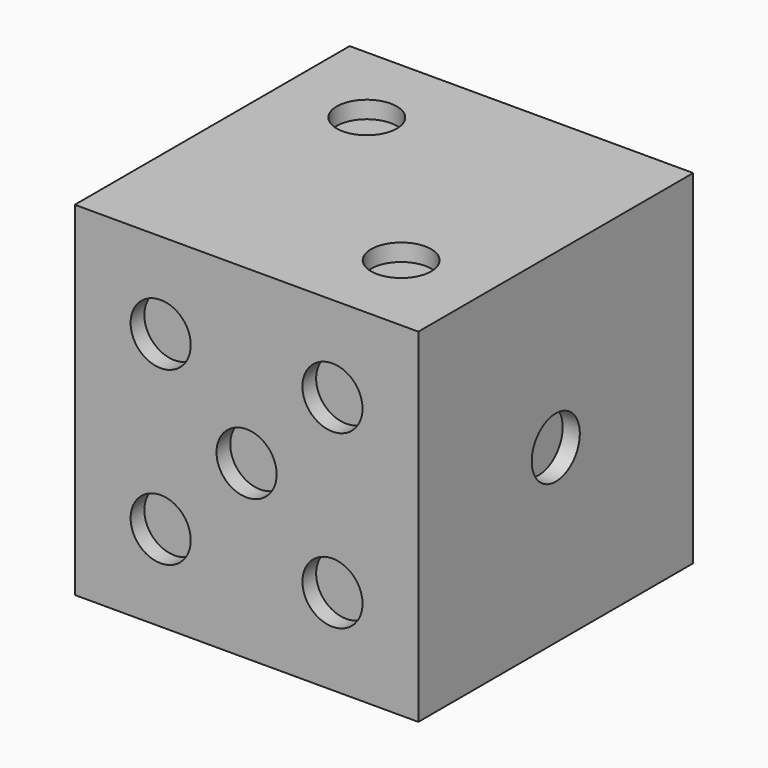
from build123d import *

# Parameters (mm, degrees)
F0_W      = 508
F0_H      = 508
F1_DEPTH  = 508
F2_R      = 44.45
F3_DEPTH  = 25.4
F4_R      = 44.45
F5_DEPTH  = 25.4
F6_R      = 44.45
F7_DEPTH  = 25.4
F8_R      = 44.45
F9_DEPTH  = 25.4
F10_R     = 44.45
F11_DEPTH = 25.4
F12_R     = 44.45
F13_DEPTH = 25.4


with BuildPart() as f1:
    # F0 (on Top) → F1 (new body)
    with BuildSketch(Plane.XY):
        with Locations((46.919354, 44.886551)):
            Rectangle(F0_W, F0_H)
    extrude(amount=F1_DEPTH)

    # F2 (on face) → F3 (cut)
    with BuildSketch(Plane(origin=(-207.080646, 0, 0), x_dir=(0, -1, 0), z_dir=(-1, 0, 0))):
        with Locations((-171.886551, 127)):
            Circle(F2_R)
        with Locations((-171.886551, 381)):
            Circle(F2_R)
        with Locations((82.113449, 381)):
            Circle(F2_R)
        with Locations((82.113449, 127)):
            Circle(F2_R)
    extrude(amount=-F3_DEPTH, mode=Mode.SUBTRACT)

    # F4 (on face) → F5 (cut)
    with BuildSketch(Plane(origin=(0, 0, 0), x_dir=(1, 0, 0), z_dir=(0, 0, -1))):
        with Locations((-80.080646, 101.163449)):
            Circle(F4_R)
        with Locations((-80.080646, -190.936551)):
            Circle(F4_R)
        with Locations((173.919354, 101.163449)):
            Circle(F4_R)
        with Locations((-80.080646, -44.886551)):
            Circle(F4_R)
        with Locations((173.919354, -44.886551)):
            Circle(F4_R)
        with Locations((173.919354, -190.936551)):
            Circle(F4_R)
    extrude(amount=-F5_DEPTH, mode=Mode.SUBTRACT)

    # F6 (on face) → F7 (cut)
    with BuildSketch(Plane(origin=(0, 298.886551, 0), x_dir=(-1, 0, 0), z_dir=(0, 1, 0))):
        with Locations((80.080646, 127)):
            Circle(F6_R)
        with Locations((-173.919354, 381)):
            Circle(F6_R)
        with Locations((-46.919354, 254)):
            Circle(F6_R)
    extrude(amount=-F7_DEPTH, mode=Mode.SUBTRACT)

    # F8 (on face) → F9 (cut)
    with BuildSketch(Plane.XZ.offset(209.113449)):
        with Locations((-80.080646, 127)):
            Circle(F8_R)
        with Locations((-80.080646, 381)):
            Circle(F8_R)
        with Locations((46.919354, 254)):
            Circle(F8_R)
        with Locations((173.919354, 127)):
            Circle(F8_R)
        with Locations((173.919354, 381)):
            Circle(F8_R)
    extrude(amount=-F9_DEPTH, mode=Mode.SUBTRACT)

    # F10 (on face) → F11 (cut)
    with BuildSketch(Plane.YZ.offset(300.919354)):
        with Locations((44.886551, 254)):
            Circle(F10_R)
    extrude(amount=-F11_DEPTH, mode=Mode.SUBTRACT)

    # F12 (on face) → F13 (cut)
    with BuildSketch(Plane.XY.offset(508)):
        with Locations((173.919354, -82.113449)):
            Circle(F12_R)
        with Locations((-80.080646, 171.886551)):
            Circle(F12_R)
    extrude(amount=-F13_DEPTH, mode=Mode.SUBTRACT)


solid = f1.part
